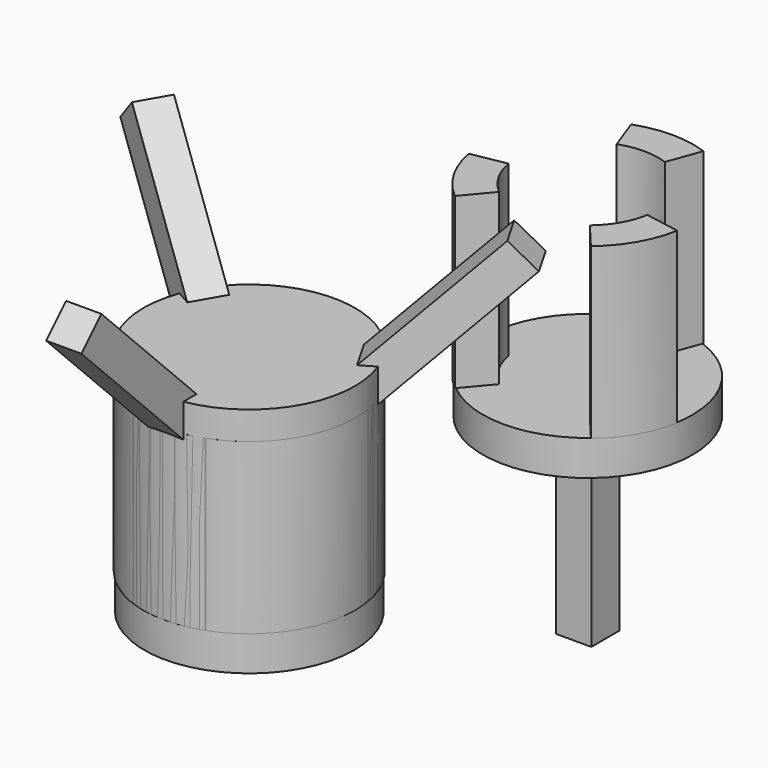
from build123d import *

# Parameters (mm, degrees)
SKETCH_R        = 1.5
SKETCH_R_2      = 1
PAD_DEPTH       = 1.2
SKETCH001_R     = 1.488237
PAD001_DEPTH    = 0.5
SKETCH002_W     = 0.5
SKETCH002_H     = 2.7
PAD002_DEPTH    = 0.25
SKETCH003_W     = 0.5
SKETCH003_H     = 3
PAD003_DEPTH    = 0.25
PAD004_DEPTH    = 0.25
PAD005_DEPTH    = 0.25
SKETCH006_R     = 1.5
PAD006_DEPTH    = 0.4
POCKET_DEPTH    = 5
SKETCH016_R     = 2
POCKET001_DEPTH = 5
SKETCH009_R     = 1.5
SKETCH009_R_2   = 1
PAD008_DEPTH    = 1.2
SKETCH010_R     = 1.488237
PAD009_DEPTH    = 0.5
SKETCH008_W     = 0.5
SKETCH008_H     = 2.7
PAD007_DEPTH    = 0.25
POCKET002_DEPTH = 5
SKETCH019_R     = 1.5
SKETCH019_R_2   = 1
PAD015_DEPTH    = 1.2
SKETCH018_R     = 1.488237
PAD014_DEPTH    = 0.5


with BuildPart() as top:
    # Sketch → Pad (new body, symmetric)
    with BuildSketch(Plane.XY):
        Circle(SKETCH_R)
        Circle(SKETCH_R_2, mode=Mode.SUBTRACT)
    extrude(amount=PAD_DEPTH, both=True)

    # Sketch001 (on Face3 of Pad) → Pad001 (join)
    with BuildSketch(Plane(origin=(0, 0, -1.2), x_dir=(1, 0, 0), z_dir=(0, 0, -1))):
        Circle(SKETCH001_R)
    extrude(amount=PAD001_DEPTH)

    # Sketch002 → Pad002 (join, symmetric)
    with BuildSketch(Plane.YZ):
        with Locations((0, -3.05)):
            Rectangle(SKETCH002_W, SKETCH002_H)
    extrude(amount=PAD002_DEPTH, both=True)

    # Sketch003 (on Face1 of CopyRuled_Surface) → Pad003 (join, symmetric)
    with BuildSketch(Plane(origin=(0, 0, 0), x_dir=(1, 0, 0), z_dir=(0, 0.707107, 0.707107))):
        with Locations((0, -2.9)):
            Rectangle(SKETCH003_W, SKETCH003_H)
    extrude(amount=PAD003_DEPTH, both=True)

    # Sketch004 (on CopyRuled_Surface) → Pad004 (join, symmetric)
    with BuildSketch(Plane(origin=(0, 0, 0), x_dir=(0.790569, -0.273861, 0.547723), z_dir=(0.612372, 0.353553, -0.707107))):
        Polygon((1.225119, -0.677557), (3.560833, -2.58466), (3.244606, -2.971958), (0.908891, -1.064855), align=None)
    extrude(amount=PAD004_DEPTH, both=True)

    # Sketch005 (on Face1 of CopyRuled_Surface002) → Pad005 (join, symmetric)
    with BuildSketch(Plane(origin=(0, 0, 0), x_dir=(0.790569, 0.273861, -0.547723), z_dir=(0.612372, -0.353553, 0.707107))):
        Polygon((-1.225119, 0.677557), (-3.560833, 2.58466), (-3.244606, 2.971958), (-0.908891, 1.064855), align=None)
    extrude(amount=PAD005_DEPTH, both=True)

    # Sketch006 (on Face7 of Pad005) → Pad006 (join)
    with BuildSketch(Plane.XY.offset(1.2)):
        Circle(SKETCH006_R)
    extrude(amount=PAD006_DEPTH)

    # Sketch007 (on Face3 of Pad002) → Pocket (cut)
    with BuildSketch(Plane.XY.offset(1.2)):
        Polygon((0, 0), (1.928363, 2.298133), (-1.928363, 2.298133), align=None)
        Polygon((0, 0), (-2.954423, 0.520945), (-1.02606, -2.819078), align=None)
        Polygon((0, 0), (1.02606, -2.819078), (2.954423, 0.520945), align=None)
    extrude(amount=-POCKET_DEPTH, mode=Mode.SUBTRACT)

    # Sketch016 (on Face52 of Pocket) → Pocket001 (cut)
    with BuildSketch(Plane.XY.offset(-1.2)):
        Circle(SKETCH016_R)
    extrude(amount=-POCKET001_DEPTH, mode=Mode.SUBTRACT)


with BuildPart() as bottom:
    # Sketch009 → Pad008 (new body, symmetric)
    with BuildSketch(Plane.XY):
        Circle(SKETCH009_R)
        Circle(SKETCH009_R_2, mode=Mode.SUBTRACT)
    extrude(amount=PAD008_DEPTH, both=True)

    # Sketch010 (on Face3 of Pad008) → Pad009 (join)
    with BuildSketch(Plane(origin=(0, 0, -1.2), x_dir=(1, 0, 0), z_dir=(0, 0, -1))):
        Circle(SKETCH010_R)
    extrude(amount=PAD009_DEPTH)

    # Sketch008 → Pad007 (join, symmetric)
    with BuildSketch(Plane.YZ):
        with Locations((0, -3.05)):
            Rectangle(SKETCH008_W, SKETCH008_H)
    extrude(amount=PAD007_DEPTH, both=True)

    # Sketch015 (on Face7 of Pad009) → Pocket002 (cut)
    with BuildSketch(Plane.XY.offset(-1.2)):
        Polygon((0, 0), (2.954423, -0.520945), (1.02606, 2.819078), align=None)
        Polygon((0, 0), (-1.02606, 2.819078), (-2.954423, -0.520945), align=None)
        Polygon((0, 0), (-1.928363, -2.298133), (1.928363, -2.298133), align=None)
    extrude(amount=POCKET002_DEPTH, mode=Mode.SUBTRACT)


with BuildPart() as bottom_1:
    # Body001 placement: moved
    add(bottom.part.moved(Location((0, 6, 0))))


with BuildPart() as pad014:
    # Sketch019 → Pad015 (new body, symmetric)
    with BuildSketch(Plane.XY):
        Circle(SKETCH019_R)
        Circle(SKETCH019_R_2, mode=Mode.SUBTRACT)
    extrude(amount=PAD015_DEPTH, both=True)

    # Sketch018 (on Face3 of Pad015) → Pad014 (new body)
    with BuildSketch(Plane(origin=(0, 0, -1.2), x_dir=(1, 0, 0), z_dir=(0, 0, -1))):
        Circle(SKETCH018_R)
    extrude(amount=PAD014_DEPTH)


solid = Compound([top.part, bottom_1.part, pad014.part])
